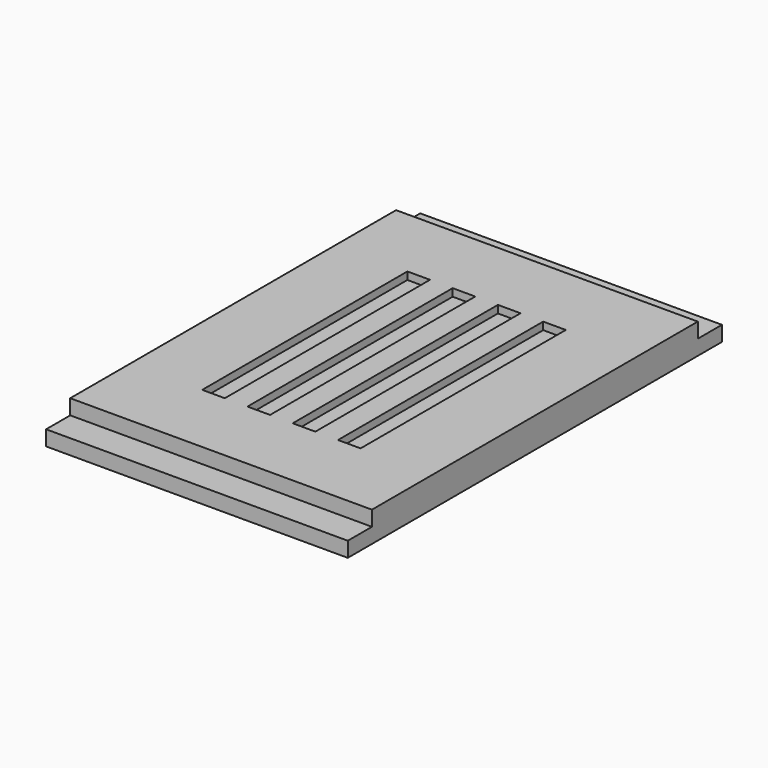
from build123d import *

# Parameters (mm, degrees)
F0_W     = 20
F0_H     = 31
F1_DEPTH = 1
F2_W     = 20
F2_H     = 27
F3_DEPTH = 1
F4_W     = 1.5
F4_H     = 17
F5_DEPTH = 0.5


with BuildPart() as f1:
    # F0 (on Top) → F1 (new body)
    with BuildSketch(Plane.XY):
        with Locations((7.02957, 0.822581)):
            Rectangle(F0_W, F0_H)
    extrude(amount=F1_DEPTH)

    # F2 (on face) → F3 (join)
    with BuildSketch(Plane.XY.offset(1)):
        with Locations((7.02957, 0.822581)):
            Rectangle(F2_W, F2_H)
    extrude(amount=F3_DEPTH)

    # F4 (on face) → F5 (cut)
    with BuildSketch(Plane.XY.offset(2)):
        with Locations((2.52957, 0.822581)):
            Rectangle(F4_W, F4_H)
        with Locations((5.52957, 0.822581)):
            Rectangle(F4_W, F4_H)
        with Locations((8.52957, 0.822581)):
            Rectangle(F4_W, F4_H)
        with Locations((11.52957, 0.822581)):
            Rectangle(F4_W, F4_H)
    extrude(amount=-F5_DEPTH, mode=Mode.SUBTRACT)


solid = f1.part
